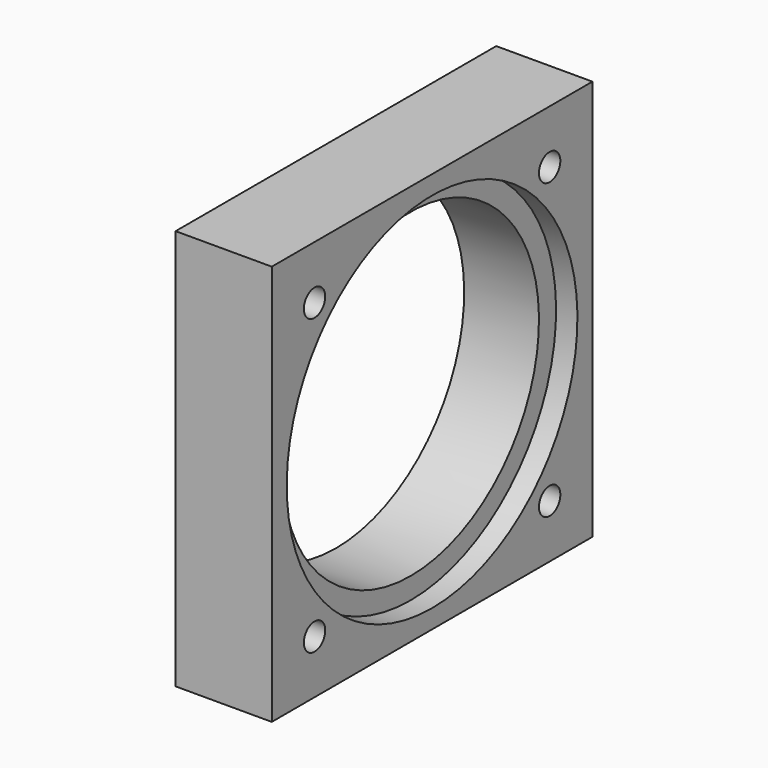
from build123d import *

# Parameters (mm, degrees)
SKETCH033_W             = 75
SKETCH033_H             = 75
PAD011_DEPTH            = 18
SKETCH034_R             = 30
SKETCH034_R_2           = 2.5
POCKET022_DEPTH         = 18
SKETCH035_R             = 34
POCKET023_DEPTH         = 4
BODY012_PLACEMENT_ANGLE = 90


with BuildPart() as part:
    # Sketch033 → Pad011 (new body)
    with BuildSketch(Plane.XY):
        Rectangle(SKETCH033_W, SKETCH033_H)
    extrude(amount=PAD011_DEPTH)

    # Sketch034 → Pocket022 (cut)
    with BuildSketch(Plane.XY.offset(18)):
        Circle(SKETCH034_R)
        with Locations((-27.5, 27.5)):
            Circle(SKETCH034_R_2)
        with Locations((27.5, 27.5)):
            Circle(SKETCH034_R_2)
        with Locations((27.5, -27.5)):
            Circle(SKETCH034_R_2)
        with Locations((-27.5, -27.5)):
            Circle(SKETCH034_R_2)
    extrude(amount=-POCKET022_DEPTH, mode=Mode.SUBTRACT)

    # Sketch035 → Pocket023 (cut)
    with BuildSketch(Plane.XY.offset(18)):
        Circle(SKETCH035_R)
    extrude(amount=-POCKET023_DEPTH, mode=Mode.SUBTRACT)


with BuildPart() as part_1:
    # Body012 placement: moved
    add(part.part.moved(Location((-149, 252, 37.5))).rotate(Axis((-149, 252, 37.5), (0, 1, 0)), BODY012_PLACEMENT_ANGLE))


solid = part_1.part
